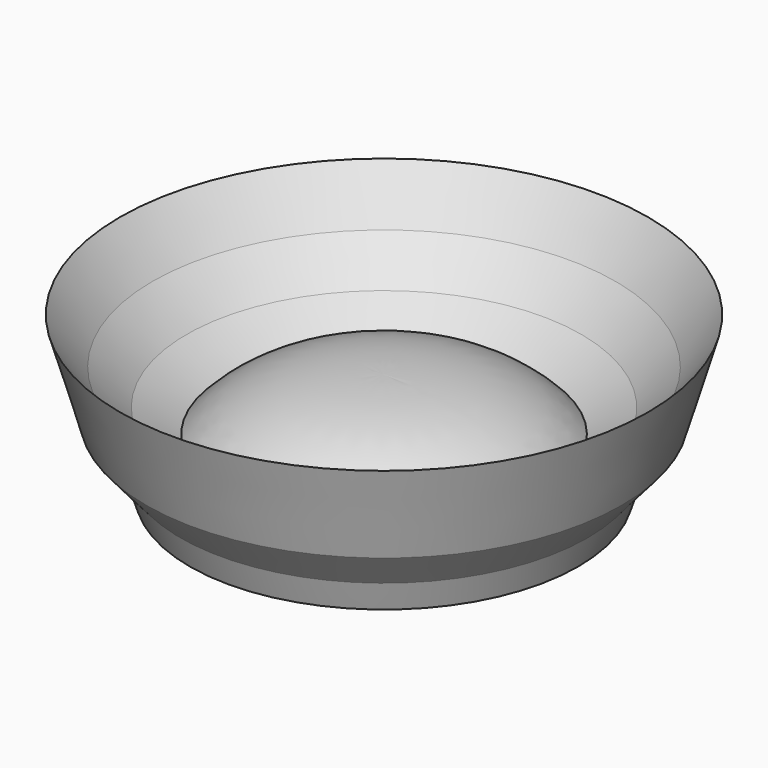
from build123d import *


with BuildPart() as f1:
    # F0 (on Front) → F1 (revolve)
    with BuildSketch(Plane.XZ):
        with BuildLine():
            Line((-60.26282, 76.2), (-60.26282, 38.1))
            add(Edge.make_bspline(
                [(-60.26282, 38.1), (0, 38.1), (12.758556, 29.479364), (28.63718, 0)],
                knots=[0, 0, 0, 0, 96.720318, 96.720318, 96.720318, 96.720318], degree=3))
            Line((28.63718, 0), (54.03718, 0))
            Line((54.03718, 0), (79.918265, 0))
            Line((79.918265, 0), (86.412194, 20.086524))
            Line((86.412194, 20.086524), (111.157579, 49.056783))
            Line((111.157579, 49.056783), (130.23718, 114.3))
            Line((130.23718, 114.3), (106.653988, 81.225932))
            Line((106.653988, 81.225932), (82.095526, 55.508321))
            Line((82.095526, 55.508321), (54.03718, 38.1))
            add(Edge.make_bspline(
                [(-60.26282, 76.2), (-14.890452, 76.626234), (25.59352, 68.289287), (54.03718, 38.1)],
                knots=[0, 0, 0, 0, 120.482779, 120.482779, 120.482779, 120.482779], degree=3))
        make_face()
    revolve(axis=Axis((-60.26282, 0, 57.15), (0, 0, 1)))


solid = f1.part
